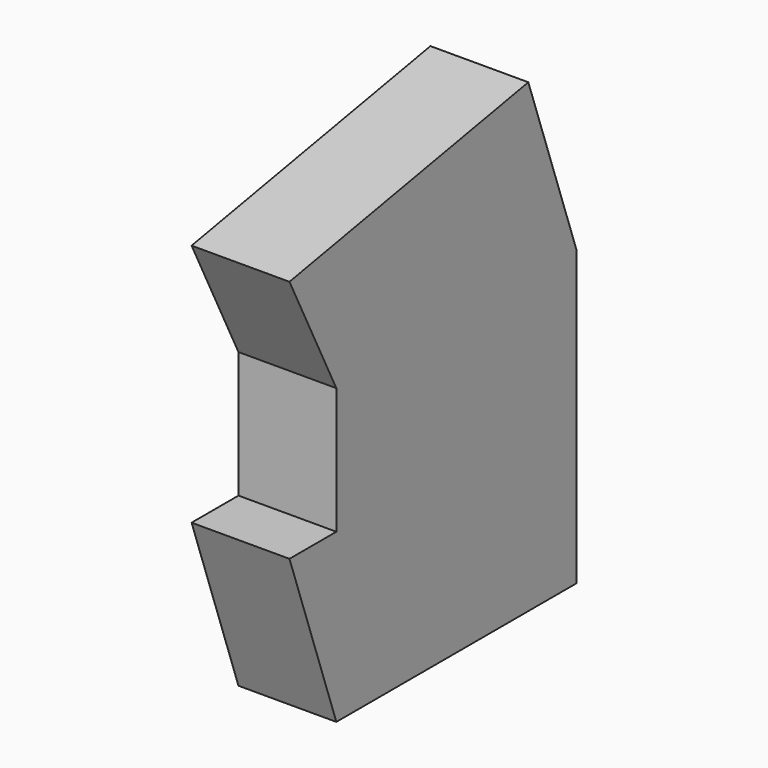
from build123d import *

# Parameters (mm, degrees)
F0_W     = 62.2637691406
F0_H     = 32.7921248972
F1_DEPTH = 25.4


with BuildPart() as f1:
    # F0 (on Right) → F1 (new body)
    with BuildSketch(Plane.YZ):
        Polygon((62.2637691406, 76.2361362576), (77.8708234429, 76.2361362576), (62.2637691406, 120.8211201676), align=None)
        Polygon((-15.2076547965, 43.4440113604), (0, 0), (0, 43.4440113604), align=None)
        Polygon((0, 43.4440113604), (0, 0), (77.8708234429, 0), (62.2637691406, 43.4440113604), align=None)
        Polygon((62.2637691406, 43.4440113604), (77.8708234429, 0), (77.8708234429, 76.2361362576), (62.2637691406, 76.2361362576), align=None)
        Polygon((-15.2076547965, 106.7328676581), (0, 76.2361362576), (62.2637691406, 76.2361362576), (62.2637691406, 120.8211201676), align=None)
        with Locations((31.1318845703, 59.840073809)):
            Rectangle(F0_W, F0_H)
    extrude(amount=F1_DEPTH)


solid = f1.part
